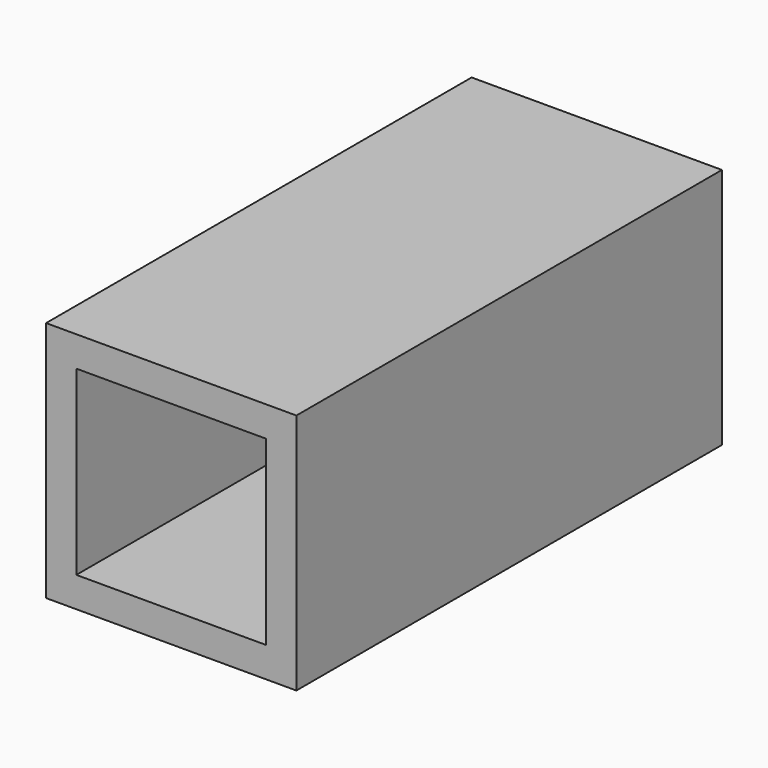
from build123d import *

# Parameters (mm, degrees)
F0_W     = 52.5193866342
F0_H     = 111.6036958992
F1_DEPTH = 50.8
F2_T     = -6.35
F3_DEPTH = 12.7


with BuildPart() as f1:
    # F0 (on Top) → F1 (new body)
    with BuildSketch(Plane.XY):
        with Locations((1.9489629194, 0.4103090614)):
            Rectangle(F0_W, F0_H)
    extrude(amount=F1_DEPTH)

    # F2
    f2_openings = [f1.faces().sort_by_distance(p)[0] for p in [
        (1.948963, -55.391539, 25.4),
    ]]
    offset(amount=F2_T, openings=f2_openings)

    # F3 (add): faces of the model
    f3_faces = [f1.faces().sort_by_distance(p)[0] for p in [
        (1.9489629194, 56.212157011, 25.4),
        (1.9489629194, 49.862157011, 25.4),
    ]]
    extrude(f3_faces, amount=-F3_DEPTH, dir=(0, 1, 0))


solid = f1.part
